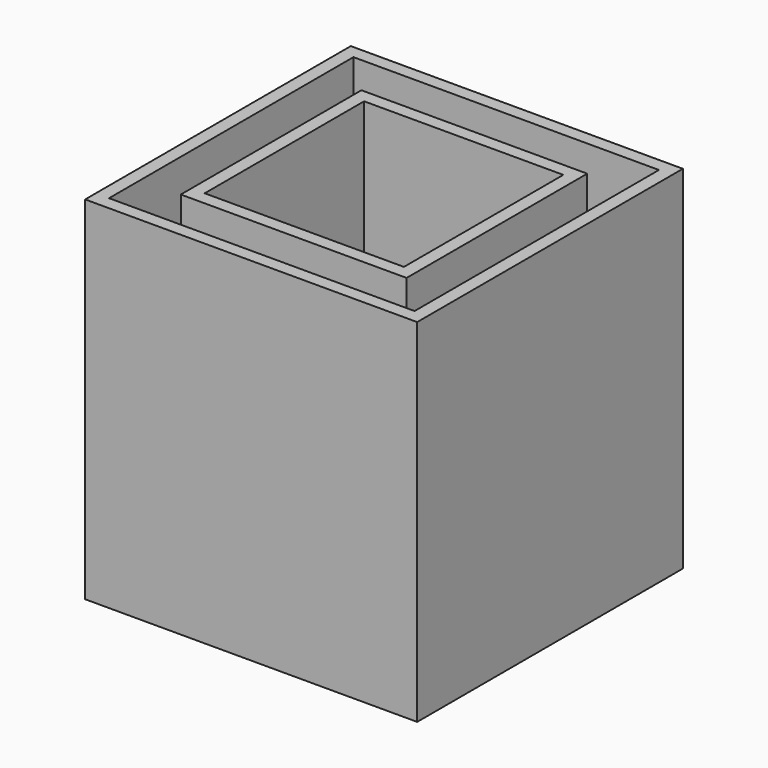
from build123d import *

# Parameters (mm, degrees)
SKETCH_W      = 50
SKETCH_H      = 50
PAD_DEPTH     = 3
SKETCH001_W   = 10
SKETCH001_H   = 10
POCKET_DEPTH  = 5
SKETCH002_W   = 50
SKETCH002_H   = 50
SKETCH002_W_2 = 46
SKETCH002_H_2 = 46
PAD001_DEPTH  = 50
SKETCH003_W   = 34
SKETCH003_H   = 34
SKETCH003_W_2 = 30
SKETCH003_H_2 = 30
PAD002_DEPTH  = 50


with BuildPart() as part:
    # Sketch → Pad (new body)
    with BuildSketch(Plane.XY):
        with Locations((25, 25)):
            Rectangle(SKETCH_W, SKETCH_H)
    extrude(amount=PAD_DEPTH)

    # Sketch001 (on Face6 of Pad) → Pocket (cut)
    with BuildSketch(Plane.XY.offset(3)):
        with Locations((25, 25)):
            Rectangle(SKETCH001_W, SKETCH001_H)
    extrude(amount=-POCKET_DEPTH, mode=Mode.SUBTRACT)

    # Sketch002 (on Face5 of Pocket) → Pad001 (join)
    with BuildSketch(Plane.XY.offset(3)):
        with Locations((25, 25)):
            Rectangle(SKETCH002_W, SKETCH002_H)
        with Locations((25, 25)):
            Rectangle(SKETCH002_W_2, SKETCH002_H_2, mode=Mode.SUBTRACT)
    extrude(amount=PAD001_DEPTH)

    # Sketch003 (on Face15 of Pad001) → Pad002 (join)
    with BuildSketch(Plane.XY.offset(3)):
        with Locations((25, 25)):
            Rectangle(SKETCH003_W, SKETCH003_H)
        with Locations((25, 25)):
            Rectangle(SKETCH003_W_2, SKETCH003_H_2, mode=Mode.SUBTRACT)
    extrude(amount=PAD002_DEPTH)


solid = part.part
